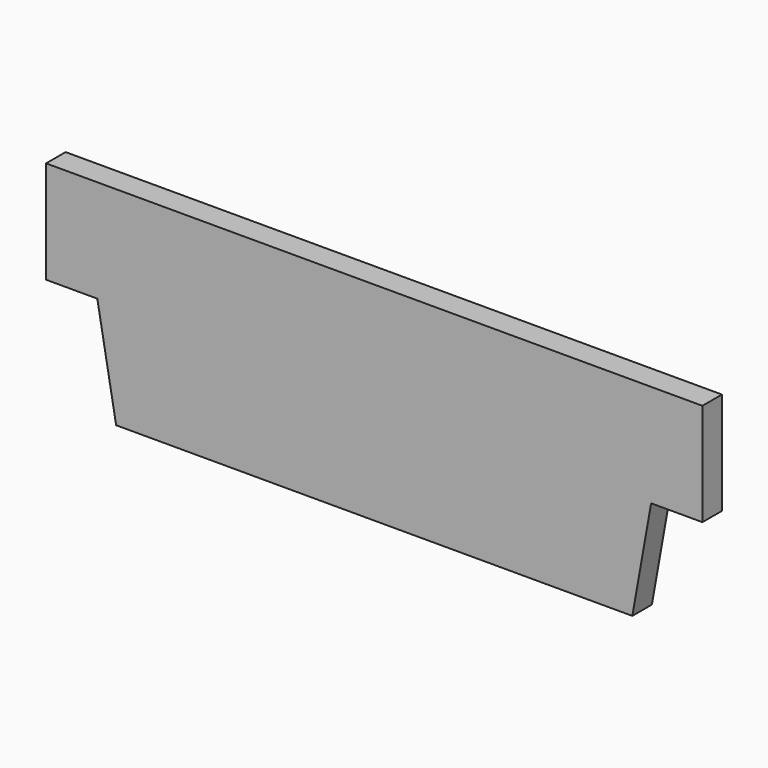
from build123d import *

# Parameters (mm, degrees)
F4_DEPTH = 50


with BuildPart() as f4:
    # F3 (on plane+point) → F4 (new body)
    with BuildSketch(Plane.XZ.offset(-255)):
        Polygon((-152.5, 265.7889200098), (-47.5, 265.7889200098), (-8.9356621785, 50), (1048.9356621785, 50), (1087.5, 265.7889200098), (1192.5, 265.7889200098), (1192.5, 475.7889200098), (-152.5, 475.7889200098), align=None)
    extrude(amount=F4_DEPTH)


solid = f4.part
